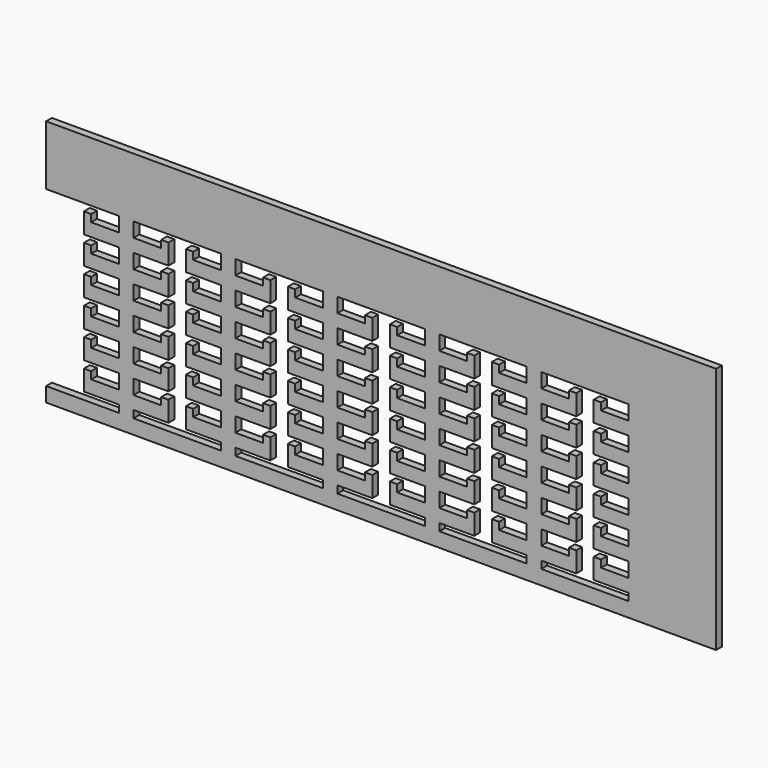
from build123d import *

# Parameters (mm, degrees)
F1_DEPTH = 6.35


with BuildPart() as f1:
    # F0 (on Front) → F1 (new body)
    with BuildSketch(Plane.XZ):
        Polygon((54.440229, -92.746272), (54.440229, 123.153728), (-529.759771, 123.153728), (-529.759771, 71.147217), (-466.259771, 71.147217), (-466.259771, 58.447217), (-490.389771, 58.447217), (-490.389771, 64.797217), (-496.739771, 64.797217), (-496.739771, 47.017217), (-466.259771, 47.017217), (-466.259771, 34.317217), (-490.389771, 34.317217), (-490.389771, 40.667217), (-496.739771, 40.667217), (-496.739771, 22.887217), (-466.259771, 22.887217), (-466.259771, 10.187217), (-490.389771, 10.187217), (-490.389771, 16.537217), (-496.739771, 16.537217), (-496.739771, -1.242783), (-466.259771, -1.242783), (-466.259771, -13.942783), (-490.389771, -13.942783), (-490.389771, -7.592783), (-496.739771, -7.592783), (-496.739771, -25.372783), (-466.259771, -25.372783), (-466.259771, -38.072783), (-490.389771, -38.072783), (-490.389771, -31.722783), (-496.739771, -31.722783), (-496.739771, -49.502783), (-466.259771, -49.502783), (-466.259771, -62.202783), (-490.389771, -62.202783), (-490.389771, -55.852783), (-496.739771, -55.852783), (-496.739771, -73.632783), (-466.259771, -73.632783), (-466.259771, -80.046283), (-529.759771, -80.046283), (-529.759771, -92.746272), align=None)
        Polygon((-453.559771, -62.202783), (-453.559771, -49.502783), (-423.079771, -49.502783), (-423.079771, -31.722783), (-429.429771, -31.722783), (-429.429771, -38.072783), (-453.559771, -38.072783), (-453.559771, -25.372783), (-423.079771, -25.372783), (-423.079771, -7.592783), (-429.429771, -7.592783), (-429.429771, -13.942783), (-453.559771, -13.942783), (-453.559771, -1.242783), (-423.079771, -1.242783), (-423.079771, 16.537217), (-429.429771, 16.537217), (-429.429771, 10.187217), (-453.559771, 10.187217), (-453.559771, 22.887217), (-423.079771, 22.887217), (-423.079771, 40.667217), (-429.429771, 40.667217), (-429.429771, 34.317217), (-453.559771, 34.317217), (-453.559771, 47.017217), (-423.079771, 47.017217), (-423.079771, 64.797217), (-429.429771, 64.797217), (-429.429771, 58.447217), (-453.559771, 58.447217), (-453.559771, 71.147217), (-377.359771, 71.147217), (-377.359771, 58.447217), (-401.489771, 58.447217), (-401.489771, 64.797217), (-407.839771, 64.797217), (-407.839771, 47.017217), (-377.359771, 47.017217), (-377.359771, 34.317217), (-401.489771, 34.317217), (-401.489771, 40.667217), (-407.839771, 40.667217), (-407.839771, 22.887217), (-377.359771, 22.887217), (-377.359771, 10.187217), (-401.489771, 10.187217), (-401.489771, 16.537217), (-407.839771, 16.537217), (-407.839771, -1.242783), (-377.359771, -1.242783), (-377.359771, -13.942783), (-401.489771, -13.942783), (-401.489771, -7.592783), (-407.839771, -7.592783), (-407.839771, -25.372783), (-377.359771, -25.372783), (-377.359771, -38.072783), (-401.489771, -38.072783), (-401.489771, -31.722783), (-407.839771, -31.722783), (-407.839771, -49.502783), (-377.359771, -49.502783), (-377.359771, -62.202783), (-401.489771, -62.202783), (-401.489771, -55.852783), (-407.839771, -55.852783), (-407.839771, -73.632783), (-377.359771, -73.632783), (-377.359771, -80.046283), (-453.559771, -80.046283), (-453.559771, -73.632783), (-423.079771, -73.632783), (-423.079771, -55.852783), (-429.429771, -55.852783), (-429.429771, -62.202783), align=None, mode=Mode.SUBTRACT)
        Polygon((-364.659771, 71.147228), (-288.459771, 71.147228), (-288.459771, 58.447228), (-312.589771, 58.447228), (-312.589771, 64.797228), (-318.939771, 64.797228), (-318.939771, 47.017228), (-288.459771, 47.017228), (-288.459771, 34.317228), (-312.589771, 34.317228), (-312.589771, 40.667228), (-318.939771, 40.667228), (-318.939771, 22.887228), (-288.459771, 22.887228), (-288.459771, 10.187228), (-312.589771, 10.187228), (-312.589771, 16.537228), (-318.939771, 16.537228), (-318.939771, -1.242772), (-288.459771, -1.242772), (-288.459771, -13.942772), (-312.589771, -13.942772), (-312.589771, -7.592772), (-318.939771, -7.592772), (-318.939771, -25.372772), (-288.459771, -25.372772), (-288.459771, -38.072772), (-312.589771, -38.072772), (-312.589771, -31.722772), (-318.939771, -31.722772), (-318.939771, -49.502772), (-288.459771, -49.502772), (-288.459771, -62.202772), (-312.589771, -62.202772), (-312.589771, -55.852772), (-318.939771, -55.852772), (-318.939771, -73.632772), (-288.459771, -73.632772), (-288.459771, -80.046272), (-364.659771, -80.046272), (-364.659771, -73.632772), (-334.179771, -73.632772), (-334.179771, -55.852772), (-340.529771, -55.852772), (-340.529771, -62.202772), (-364.659771, -62.202772), (-364.659771, -49.502772), (-334.179771, -49.502772), (-334.179771, -31.722772), (-340.529771, -31.722772), (-340.529771, -38.072772), (-364.659771, -38.072772), (-364.659771, -25.372772), (-334.179771, -25.372772), (-334.179771, -7.592772), (-340.529771, -7.592772), (-340.529771, -13.942772), (-364.659771, -13.942772), (-364.659771, -1.242772), (-334.179771, -1.242772), (-334.179771, 16.537228), (-340.529771, 16.537228), (-340.529771, 10.187228), (-364.659771, 10.187228), (-364.659771, 22.887228), (-334.179771, 22.887228), (-334.179771, 40.667228), (-340.529771, 40.667228), (-340.529771, 34.317228), (-364.659771, 34.317228), (-364.659771, 47.017228), (-334.179771, 47.017228), (-334.179771, 64.797228), (-340.529771, 64.797228), (-340.529771, 58.447228), (-364.659771, 58.447228), align=None, mode=Mode.SUBTRACT)
        Polygon((-275.759771, -62.202772), (-275.759771, -49.502772), (-245.279771, -49.502772), (-245.279771, -31.722772), (-251.629771, -31.722772), (-251.629771, -38.072772), (-275.759771, -38.072772), (-275.759771, -25.372772), (-245.279771, -25.372772), (-245.279771, -7.592772), (-251.629771, -7.592772), (-251.629771, -13.942772), (-275.759771, -13.942772), (-275.759771, -1.242772), (-245.279771, -1.242772), (-245.279771, 16.537228), (-251.629771, 16.537228), (-251.629771, 10.187228), (-275.759771, 10.187228), (-275.759771, 22.887228), (-245.279771, 22.887228), (-245.279771, 40.667228), (-251.629771, 40.667228), (-251.629771, 34.317228), (-275.759771, 34.317228), (-275.759771, 47.017228), (-245.279771, 47.017228), (-245.279771, 64.797228), (-251.629771, 64.797228), (-251.629771, 58.447228), (-275.759771, 58.447228), (-275.759771, 71.147228), (-199.559771, 71.147228), (-199.559771, 58.447228), (-223.689771, 58.447228), (-223.689771, 64.797228), (-230.039771, 64.797228), (-230.039771, 47.017228), (-199.559771, 47.017228), (-199.559771, 34.317228), (-223.689771, 34.317228), (-223.689771, 40.667228), (-230.039771, 40.667228), (-230.039771, 22.887228), (-199.559771, 22.887228), (-199.559771, 10.187228), (-223.689771, 10.187228), (-223.689771, 16.537228), (-230.039771, 16.537228), (-230.039771, -1.242772), (-199.559771, -1.242772), (-199.559771, -13.942772), (-223.689771, -13.942772), (-223.689771, -7.592772), (-230.039771, -7.592772), (-230.039771, -25.372772), (-199.559771, -25.372772), (-199.559771, -38.072772), (-223.689771, -38.072772), (-223.689771, -31.722772), (-230.039771, -31.722772), (-230.039771, -49.502772), (-199.559771, -49.502772), (-199.559771, -62.202772), (-223.689771, -62.202772), (-223.689771, -55.852772), (-230.039771, -55.852772), (-230.039771, -73.632772), (-199.559771, -73.632772), (-199.559771, -80.046272), (-275.759771, -80.046272), (-275.759771, -73.632772), (-245.279771, -73.632772), (-245.279771, -55.852772), (-251.629771, -55.852772), (-251.629771, -62.202772), align=None, mode=Mode.SUBTRACT)
        Polygon((-186.859771, -62.202772), (-186.859771, -49.502772), (-156.379771, -49.502772), (-156.379771, -31.722772), (-162.729771, -31.722772), (-162.729771, -38.072772), (-186.859771, -38.072772), (-186.859771, -25.372772), (-156.379771, -25.372772), (-156.379771, -7.592772), (-162.729771, -7.592772), (-162.729771, -13.942772), (-186.859771, -13.942772), (-186.859771, -1.242772), (-156.379771, -1.242772), (-156.379771, 16.537228), (-162.729771, 16.537228), (-162.729771, 10.187228), (-186.859771, 10.187228), (-186.859771, 22.887228), (-156.379771, 22.887228), (-156.379771, 40.667228), (-162.729771, 40.667228), (-162.729771, 34.317228), (-186.859771, 34.317228), (-186.859771, 47.017228), (-156.379771, 47.017228), (-156.379771, 64.797228), (-162.729771, 64.797228), (-162.729771, 58.447228), (-186.859771, 58.447228), (-186.859771, 71.147228), (-110.659771, 71.147228), (-110.659771, 58.447228), (-134.789771, 58.447228), (-134.789771, 64.797228), (-141.139771, 64.797228), (-141.139771, 47.017228), (-110.659771, 47.017228), (-110.659771, 34.317228), (-134.789771, 34.317228), (-134.789771, 40.667228), (-141.139771, 40.667228), (-141.139771, 22.887228), (-110.659771, 22.887228), (-110.659771, 10.187228), (-134.789771, 10.187228), (-134.789771, 16.537228), (-141.139771, 16.537228), (-141.139771, -1.242772), (-110.659771, -1.242772), (-110.659771, -13.942772), (-134.789771, -13.942772), (-134.789771, -7.592772), (-141.139771, -7.592772), (-141.139771, -25.372772), (-110.659771, -25.372772), (-110.659771, -38.072772), (-134.789771, -38.072772), (-134.789771, -31.722772), (-141.139771, -31.722772), (-141.139771, -49.502772), (-110.659771, -49.502772), (-110.659771, -62.202772), (-134.789771, -62.202772), (-134.789771, -55.852772), (-141.139771, -55.852772), (-141.139771, -73.632772), (-110.659771, -73.632772), (-110.659771, -80.046272), (-186.859771, -80.046272), (-186.859771, -73.632772), (-156.379771, -73.632772), (-156.379771, -55.852772), (-162.729771, -55.852772), (-162.729771, -62.202772), align=None, mode=Mode.SUBTRACT)
        Polygon((-97.959771, -62.202772), (-97.959771, -49.502772), (-67.479771, -49.502772), (-67.479771, -31.722772), (-73.829771, -31.722772), (-73.829771, -38.072772), (-97.959771, -38.072772), (-97.959771, -25.372772), (-67.479771, -25.372772), (-67.479771, -7.592772), (-73.829771, -7.592772), (-73.829771, -13.942772), (-97.959771, -13.942772), (-97.959771, -1.242772), (-67.479771, -1.242772), (-67.479771, 16.537228), (-73.829771, 16.537228), (-73.829771, 10.187228), (-97.959771, 10.187228), (-97.959771, 22.887228), (-67.479771, 22.887228), (-67.479771, 40.667228), (-73.829771, 40.667228), (-73.829771, 34.317228), (-97.959771, 34.317228), (-97.959771, 47.017228), (-67.479771, 47.017228), (-67.479771, 64.797228), (-73.829771, 64.797228), (-73.829771, 58.447228), (-97.959771, 58.447228), (-97.959771, 71.147228), (-21.759771, 71.147228), (-21.759771, 58.447228), (-45.889771, 58.447228), (-45.889771, 64.797228), (-52.239771, 64.797228), (-52.239771, 47.017228), (-21.759771, 47.017228), (-21.759771, 34.317228), (-45.889771, 34.317228), (-45.889771, 40.667228), (-52.239771, 40.667228), (-52.239771, 22.887228), (-21.759771, 22.887228), (-21.759771, 10.187228), (-45.889771, 10.187228), (-45.889771, 16.537228), (-52.239771, 16.537228), (-52.239771, -1.242772), (-21.759771, -1.242772), (-21.759771, -13.942772), (-45.889771, -13.942772), (-45.889771, -7.592772), (-52.239771, -7.592772), (-52.239771, -25.372772), (-21.759771, -25.372772), (-21.759771, -38.072772), (-45.889771, -38.072772), (-45.889771, -31.722772), (-52.239771, -31.722772), (-52.239771, -49.502772), (-21.759771, -49.502772), (-21.759771, -62.202772), (-45.889771, -62.202772), (-45.889771, -55.852772), (-52.239771, -55.852772), (-52.239771, -73.632772), (-21.759771, -73.632772), (-21.759771, -80.046272), (-97.959771, -80.046272), (-97.959771, -73.632772), (-67.479771, -73.632772), (-67.479771, -55.852772), (-73.829771, -55.852772), (-73.829771, -62.202772), align=None, mode=Mode.SUBTRACT)
    extrude(amount=F1_DEPTH)


solid = f1.part
